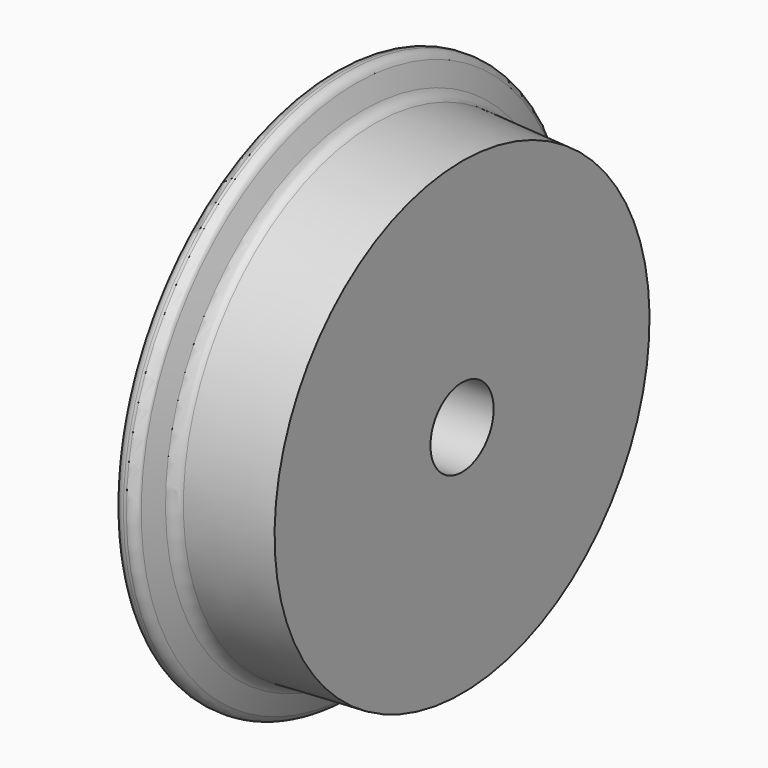
from build123d import *

# Parameters (mm, degrees)
F2_R     = 12.4
F3_DEPTH = 40.501


with BuildPart() as f1:
    # F0 (on Front) → F1 (revolve)
    with BuildSketch(Plane.XZ):
        with BuildLine():
            Line((0, 83.07), (0, 0))
            Line((0, 0), (40.5, 0))
            Line((40.5, 0), (40.5, 73.559834))
            Line((40.5, 73.559834), (13.02, 75))
            ThreePointArc((13.02, 75), (10.866327, 75.773248), (9.497194, 77.606739))
            Line((9.497194, 77.606739), (7.112867, 84.157624))
            ThreePointArc((7.112867, 84.157624), (5.948618, 85.674904), (4.124644, 86.25))
            Line((4.124644, 86.25), (3.18, 86.25))
            ThreePointArc((3.18, 86.25), (0.9314, 85.3186), (0, 83.07))
        make_face()
    revolve(axis=Axis((20.25, 0, 0), (-1, 0, 0)))

    # F2 (on face) → F3 (cut, through all)
    with BuildSketch(Plane.YZ.offset(40.5)):
        Circle(F2_R)
    extrude(amount=-F3_DEPTH, mode=Mode.SUBTRACT)


solid = f1.part
